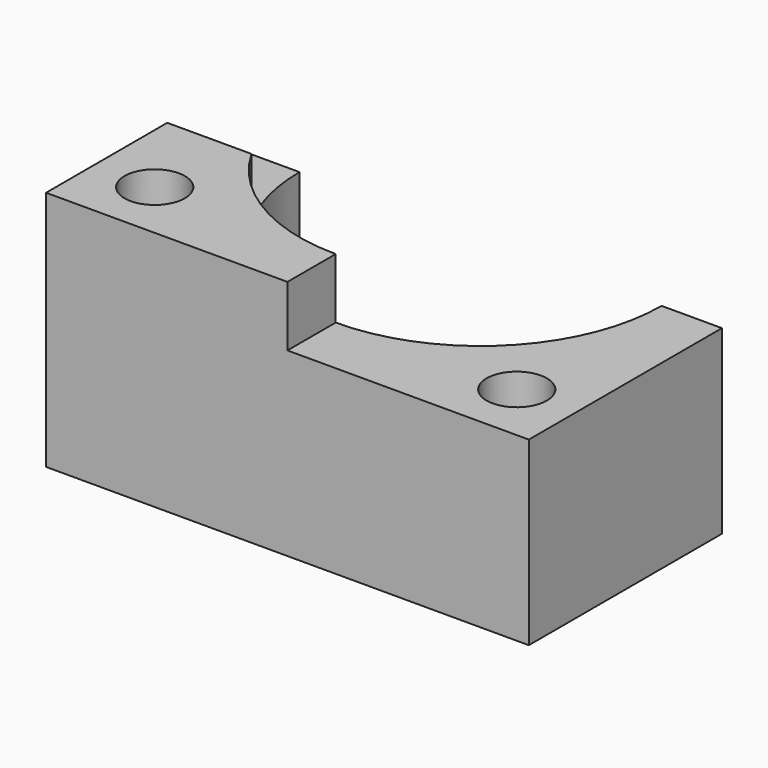
from build123d import *

# Parameters (mm, degrees)
F0_R     = 5
F1_DEPTH = 40
F2_R     = 5
F3_DEPTH = 10


with BuildPart() as f1:
    # F0 (on Top) → F1 (new body)
    with BuildSketch(Plane.XY):
        with BuildLine():
            Line((-49.9128035599, 40), (-49.9128035599, 0))
            Line((-49.9128035599, 0), (30.0871964401, 0))
            Line((30.0871964401, 0), (30.0871964401, 40))
            Line((30.0871964401, 40), (20.0871964401, 40))
            ThreePointArc((20.0871964401, 40), (-9.9128035599, 10), (-39.9128035599, 40))
            Line((-39.9128035599, 40), (-49.9128035599, 40))
        make_face()
        with Locations((-39.9128035599, 10)):
            Circle(F0_R, mode=Mode.SUBTRACT)
        with Locations((20.0871964401, 10)):
            Circle(F0_R, mode=Mode.SUBTRACT)
    extrude(amount=F1_DEPTH)

    # F2 (on face) → F3 (cut)
    with BuildSketch(Plane.XY.offset(40)):
        with BuildLine():
            Line((-49.9128035599, 40), (-49.9128035599, 25.1002423465))
            Line((-49.9128035599, 25.1002423465), (-35.9511833457, 25.1002423465))
            ThreePointArc((-35.9511833457, 25.1002423465), (-38.9054870643, 32.2912839452), (-39.9128035599, 40))
            Line((-39.9128035599, 40), (-49.9128035599, 40))
        make_face()
        with BuildLine():
            ThreePointArc((20.0871964401, 40), (11.3003998756, 18.7867965644), (-9.9128035599, 10))
            Line((-9.9128035599, 10), (-9.9128035599, 0))
            Line((-9.9128035599, 0), (30.0871964401, 0))
            Line((30.0871964401, 0), (30.0871964401, 40))
            Line((30.0871964401, 40), (20.0871964401, 40))
        make_face()
        with Locations((20.0871964401, 10)):
            Circle(F2_R, mode=Mode.SUBTRACT)
    extrude(amount=-F3_DEPTH, mode=Mode.SUBTRACT)


solid = f1.part
